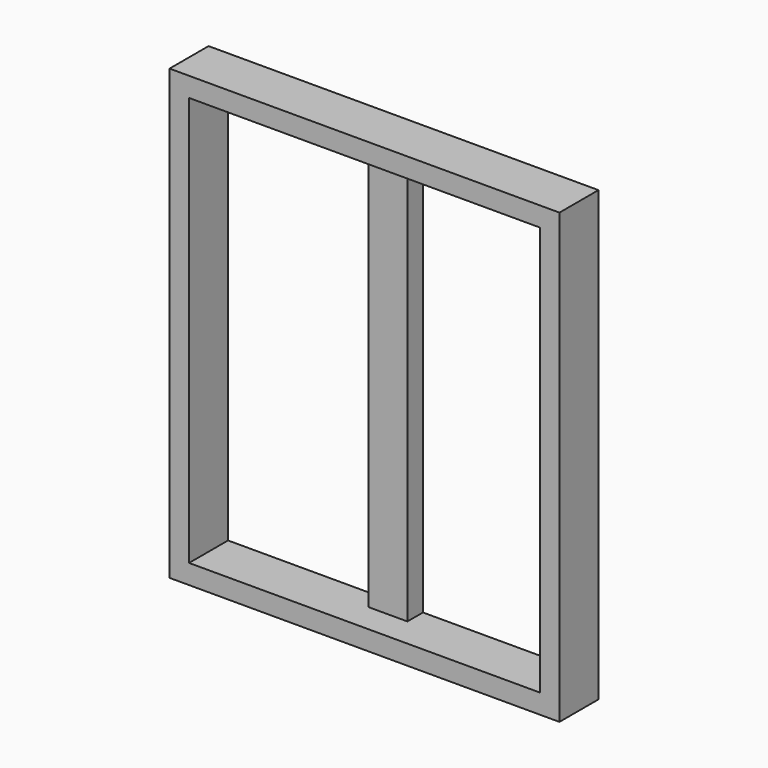
from build123d import *

# Parameters (mm, degrees)
F0_W     = 20
F0_H     = 23
F1_DEPTH = 2.5
F0_W_2   = 1
F0_H_2   = 7
F0_H_3   = 6
F0_H_4   = 1
F2_DEPTH = 1


with BuildPart() as f1:
    # F0 (on Front) → F1 (new body)
    with BuildSketch(Plane.XZ):
        with Locations((-0.5926657468, -2.021088949)):
            Rectangle(F0_W, F0_H)
        Polygon((-9.5926657468, 2.478911051), (-9.5926657468, 8.478911051), (-1.5926657468, 8.478911051), (-0.5926657468, 8.478911051), (0.4073342532, 8.478911051), (8.4073342532, 8.478911051), (8.4073342532, 2.478911051), (8.4073342532, 1.478911051), (8.4073342532, -5.521088949), (8.4073342532, -6.521088949), (8.4073342532, -12.521088949), (0.4073342532, -12.521088949), (-0.5926657468, -12.521088949), (-1.5926657468, -12.521088949), (-9.5926657468, -12.521088949), (-9.5926657468, -6.521088949), (-9.5926657468, -5.521088949), (-9.5926657468, 1.478911051), align=None, mode=Mode.SUBTRACT)
    extrude(amount=F1_DEPTH)

    # F0 (on Front) → F2 (join)
    with BuildSketch(Plane.XZ):
        with Locations((-1.0926657468, -2.021088949)):
            Rectangle(F0_W_2, F0_H_2)
        with Locations((-1.0926657468, -9.521088949)):
            Rectangle(F0_W_2, F0_H_3)
        with Locations((-0.0926657468, -9.521088949)):
            Rectangle(F0_W_2, F0_H_3)
        with Locations((-1.0926657468, 5.478911051)):
            Rectangle(F0_W_2, F0_H_3)
        with Locations((-0.0926657468, 5.478911051)):
            Rectangle(F0_W_2, F0_H_3)
        with Locations((-1.0926657468, 1.978911051)):
            Rectangle(F0_W_2, F0_H_4)
        with Locations((-0.0926657468, 1.978911051)):
            Rectangle(F0_W_2, F0_H_4)
        with Locations((-0.0926657468, -2.021088949)):
            Rectangle(F0_W_2, F0_H_2)
        with Locations((-0.0926657468, -6.021088949)):
            Rectangle(F0_W_2, F0_H_4)
        with Locations((-1.0926657468, -6.021088949)):
            Rectangle(F0_W_2, F0_H_4)
    extrude(amount=F2_DEPTH)


solid = f1.part
